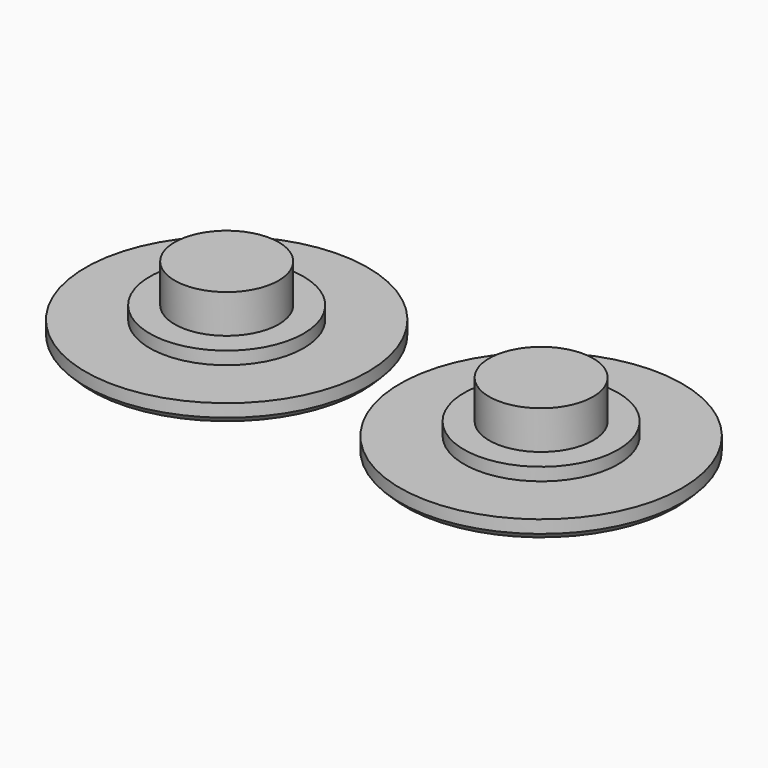
from build123d import *

# Parameters (mm, degrees)
F0_R     = 11
F1_DEPTH = 1.5
F2_R     = 6
F3_DEPTH = 1
F4_SIZE  = 0.5
F5_R     = 4.05
F6_DEPTH = 3


with BuildPart() as f1:
    # F0 (on Top) → F1 (new body)
    with BuildSketch(Plane.XY):
        Circle(F0_R)
    extrude(amount=F1_DEPTH)

    # F2 (on face) → F3 (join)
    with BuildSketch(Plane.XY.offset(1.5)):
        Circle(F2_R)
    extrude(amount=F3_DEPTH)

    # F4
    f4_edges = [f1.edges().sort_by_distance(p)[0] for p in [
        (-11, 0, 0),
    ]]
    chamfer(f4_edges, length=F4_SIZE)

    # F5 (on face) → F6 (join)
    with BuildSketch(Plane.XY.offset(2.5)):
        Circle(F5_R)
    extrude(amount=F6_DEPTH)


with BuildPart() as f7_1:
    # F7: copy of F1
    add(f1.part.moved(Location((24.5, 0, 0))))


solid = Compound([f1.part, f7_1.part])
